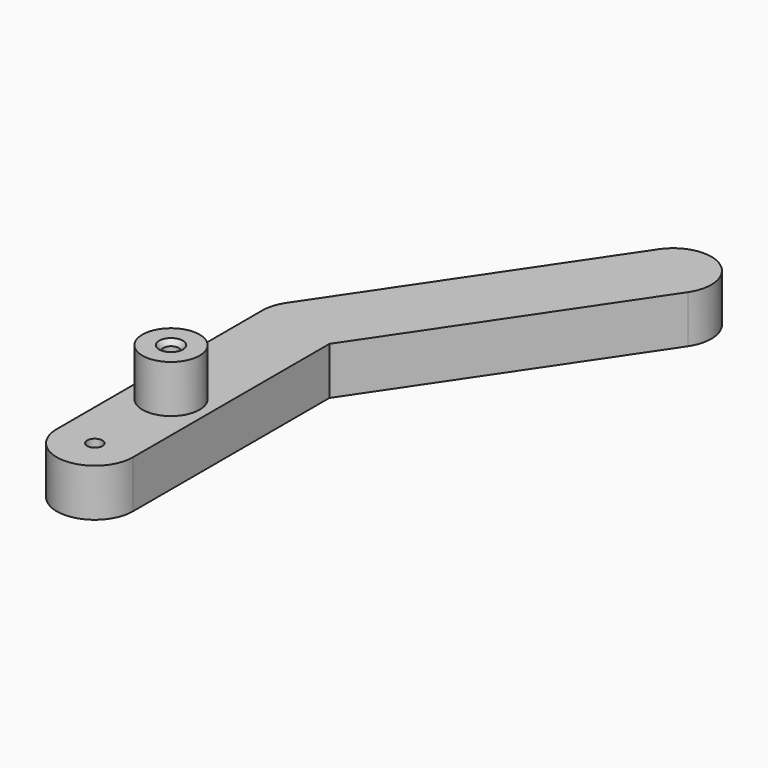
from build123d import *

# Parameters (mm, degrees)
F1_DEPTH       = 6.35
F2_R           = 3.81
F3_DEPTH       = 6.35
F5_D           = 2.032
F5_CSINK_D     = 3.175
F5_CSINK_ANGLE = 82
F7_D           = 2.032


with BuildPart() as f1:
    # F0 (on Top) → F1 (new body)
    with BuildSketch(Plane.XY):
        with BuildLine():
            ThreePointArc((-5.08, 12.7), (-3.5921024484, 9.1078975516), (0, 7.62))
            Line((0, 7.62), (0, 12.7))
            Line((0, 12.7), (0, 17.78))
            ThreePointArc((0, 17.78), (-3.5921024484, 16.2921024484), (-5.08, 12.7))
        make_face()
        with BuildLine():
            Line((0, 12.7), (0, 7.62))
            ThreePointArc((0, 7.62), (3.5921024484, 9.1078975516), (5.08, 12.7))
            ThreePointArc((5.08, 12.7), (3.5921024484, 16.2921024484), (0, 17.78))
            Line((0, 17.78), (0, 12.7))
        make_face()
        with BuildLine():
            ThreePointArc((5.08, 12.7), (3.5921024484, 9.1078975516), (0, 7.62))
            ThreePointArc((0, 7.62), (-3.5921024484, 9.1078975516), (-5.08, 12.7))
            Line((-5.08, 12.7), (-5.08, 0))
            ThreePointArc((-5.08, 0), (0, -5.08), (5.08, 0))
            Line((5.08, 0), (5.08, 12.7))
        make_face()
        with BuildLine():
            ThreePointArc((0, 17.78), (3.5921024484, 16.2921024484), (5.08, 12.7))
            Line((5.08, 12.7), (5.08, 32.7368881382))
            Line((5.08, 32.7368881382), (4.2115108686, 31.4493000504))
            ThreePointArc((4.2115108686, 31.4493000504), (2.384915539, 29.8046262283), (0, 29.21))
            Line((0, 29.21), (0, 17.78))
        make_face()
        with BuildLine():
            Line((-5.08, 34.29), (-5.08, 12.7))
            ThreePointArc((-5.08, 12.7), (-3.5921024484, 16.2921024484), (0, 17.78))
            Line((0, 17.78), (0, 29.21))
            ThreePointArc((0, 29.21), (-3.5921024484, 30.6978975516), (-5.08, 34.29))
        make_face()
        with BuildLine():
            Line((5.08, 34.29), (5.08, 32.7368881382))
            Line((5.08, 32.7368881382), (26.9371104656, 65.141386999))
            ThreePointArc((26.9371104656, 65.141386999), (25.5662995467, 72.1935978172), (18.5140887285, 70.8227868983))
            Line((18.5140887285, 70.8227868983), (-4.2115108686, 37.1306999496))
            ThreePointArc((-4.2115108686, 37.1306999496), (-0.9693096965, 39.2766660919), (2.8406999496, 38.5015108686))
            ThreePointArc((2.8406999496, 38.5015108686), (4.4853737717, 36.674915539), (5.08, 34.29))
        make_face()
        with BuildLine():
            Line((4.2115108686, 31.4493000504), (5.08, 32.7368881382))
            Line((5.08, 32.7368881382), (5.08, 34.29))
            ThreePointArc((5.08, 34.29), (4.4853737717, 36.674915539), (2.8406999496, 38.5015108686))
            Line((2.8406999496, 38.5015108686), (0, 34.29))
            Line((0, 34.29), (0, 29.21))
            ThreePointArc((0, 29.21), (2.384915539, 29.8046262283), (4.2115108686, 31.4493000504))
        make_face()
        with BuildLine():
            ThreePointArc((-4.2115108686, 37.1306999496), (-4.8580281603, 35.77524826), (-5.08, 34.29))
            ThreePointArc((-5.08, 34.29), (-3.5921024484, 30.6978975516), (0, 29.21))
            Line((0, 29.21), (0, 34.29))
            Line((0, 34.29), (2.8406999496, 38.5015108686))
            ThreePointArc((2.8406999496, 38.5015108686), (-0.9693096965, 39.2766660919), (-4.2115108686, 37.1306999496))
        make_face()
    extrude(amount=F1_DEPTH)

    # F2 (on face) → F3 (join)
    with BuildSketch(Plane.XY.offset(6.35)):
        with Locations((0, 12.7)):
            Circle(F2_R)
    extrude(amount=F3_DEPTH)

    # F5 (through all)
    with Locations(Plane.XY.offset(12.7)):
        with Locations((0, 12.7)):
            CounterSinkHole(F5_D / 2, F5_CSINK_D / 2, counter_sink_angle=F5_CSINK_ANGLE)

    # F7 (through all)
    with Locations(Plane(origin=(0, 0, 0), x_dir=(1, 0, 0), z_dir=(0, 0, -1))):
        with Locations((0, 0)):
            Hole(F7_D / 2)


solid = f1.part
